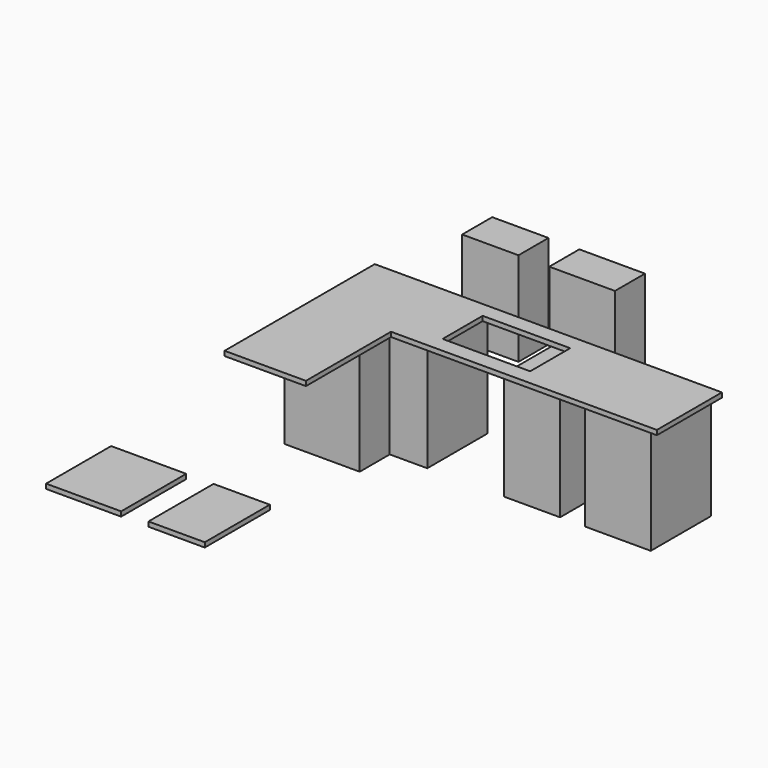
from build123d import *

# Parameters (mm, degrees)
F0_W     = 457.2
F0_H     = 609.6
F0_W_2   = 533.4
F1_DEPTH = 876.3
F0_H_2   = 304.8
F2_DEPTH = 762
F3_W     = 711.2
F3_H     = 406.4
F3_W_2   = 609.6
F3_H_2   = 660.4
F3_W_3   = 457.2
F4_DEPTH = 38.1


with BuildPart() as f1:
    # F0 (on Top) → F1 (new body)
    with BuildSketch(Plane.XY):
        Polygon((918.504711, 0), (4.104711, 0), (4.104711, -914.4), (613.704711, -914.4), (613.704711, -609.6), (918.504711, -609.6), align=None)
        with Locations((1768.215393, -304.8)):
            Rectangle(F0_W, F0_H)
        with Locations((2466.778249, -304.8)):
            Rectangle(F0_W_2, F0_H)
    extrude(amount=F1_DEPTH)


with BuildPart() as f2:
    # F0 (on Top) → F2 (new body)
    with BuildSketch(Plane.XY):
        with Locations((228.6, 1045.05269)):
            Rectangle(F0_W, F0_H_2)
        with Locations((974.140078, 1045.05269)):
            Rectangle(F0_W_2, F0_H_2)
    extrude(amount=F2_DEPTH)


with BuildPart() as f4:
    # F3 (on face) → F4 (new body)
    with BuildSketch(Plane.XY.offset(876.3)):
        Polygon((2823.504711, 0), (918.504711, 0), (918.504711, -609.6), (613.704711, -609.6), (613.704711, -914.4), (4.104711, -914.4), (4.104711, -1524), (664.504711, -1524), (664.504711, -660.4), (2823.504711, -660.4), align=None)
        with Locations((1337.604711, -330.2)):
            Rectangle(F3_W, F3_H, mode=Mode.SUBTRACT)
        Polygon((918.504711, 0), (4.104711, 0), (4.104711, -914.4), (613.704711, -914.4), (613.704711, -609.6), (918.504711, -609.6), align=None)
        with Locations((564.610001, -3325.349049)):
            Rectangle(F3_W_2, F3_H_2)
        with Locations((1319.846486, -3325.349049)):
            Rectangle(F3_W_3, F3_H_2)
    extrude(amount=F4_DEPTH)


solid = Compound([f1.part, f2.part, f4.part])
